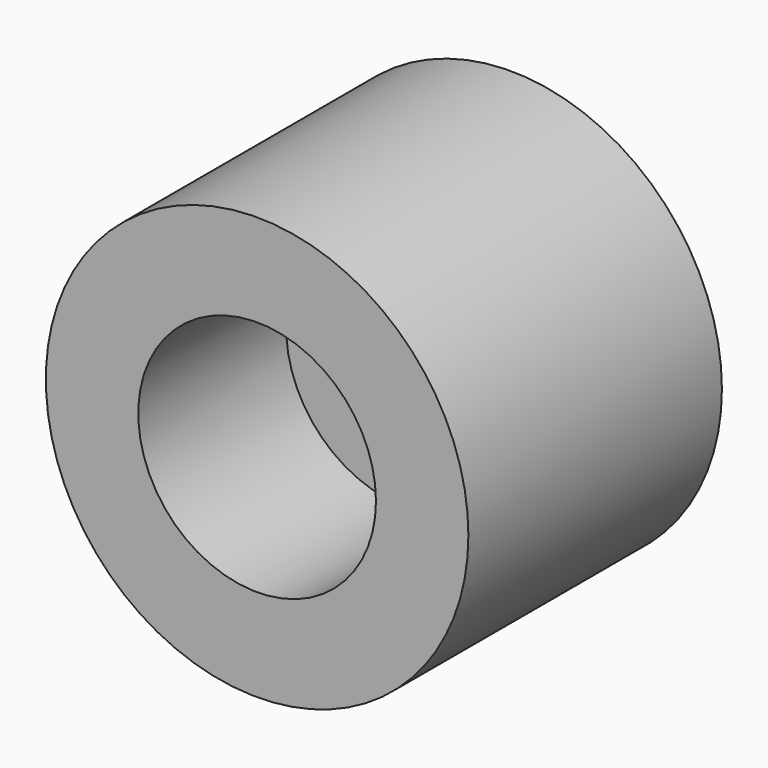
from build123d import *

# Parameters (mm, degrees)
F0_R     = 101.6
F0_R_2   = 57.15
F1_DEPTH = 152.4
F2_R     = 57.15
F3_DEPTH = 63.5


with BuildPart() as f1:
    # F0 (on Front) → F1 (new body)
    with BuildSketch(Plane.XZ):
        Circle(F0_R)
        Circle(F0_R_2, mode=Mode.SUBTRACT)
    extrude(amount=F1_DEPTH)

    # F2 (on Front) → F3 (join)
    with BuildSketch(Plane.XZ):
        Circle(F2_R)
    extrude(amount=F3_DEPTH)


solid = f1.part
